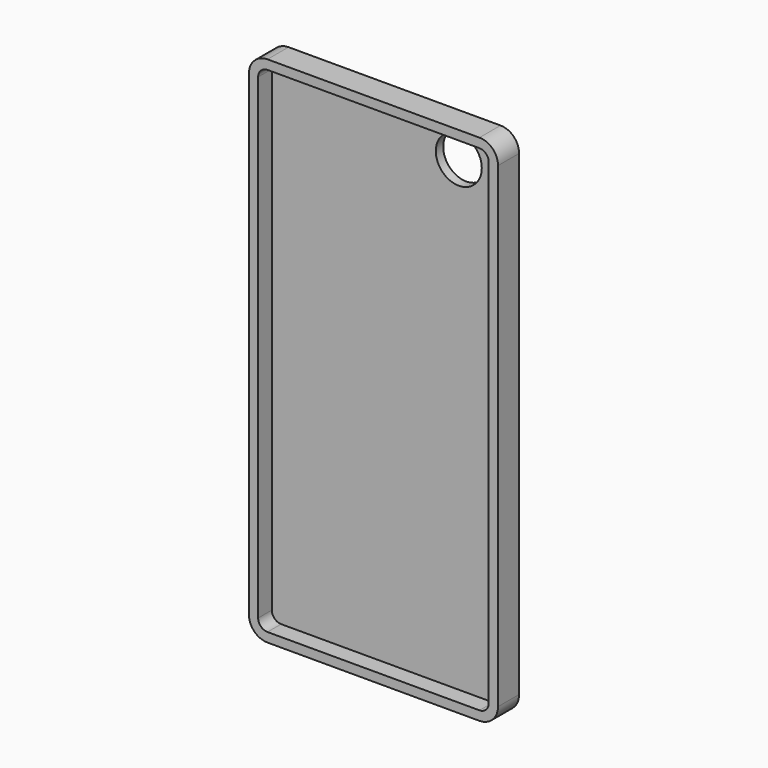
from build123d import *

# Parameters (mm, degrees)
F0_W     = 67.1
F0_H     = 138.3
F1_DEPTH = 3.55
F2_R     = 5
F3_T     = -2.5
F4_R     = 6.1900061573
F5_DEPTH = 12.5


with BuildPart() as f1:
    # F0 (on Front) → F1 (new body, symmetric)
    with BuildSketch(Plane.XZ):
        Rectangle(F0_W, F0_H)
    extrude(amount=F1_DEPTH, both=True)

    # F2
    f2_edges = [f1.edges().sort_by_distance(p)[0] for p in [
        (-33.55, 0, 69.15),
        (33.55, 0, 69.15),
        (33.55, 0, -69.15),
        (-33.55, 0, -69.15),
    ]]
    fillet(f2_edges, radius=F2_R)

    # F3
    f3_openings = [f1.faces().sort_by_distance(p)[0] for p in [
        (0, -3.55, 0),
    ]]
    offset(amount=F3_T, openings=f3_openings)

    # F4 (on Front) → F5 (cut, symmetric)
    with BuildSketch(Plane.XZ):
        with Locations((19.3064566702, 59.0549409389)):
            Circle(F4_R)
    extrude(amount=F5_DEPTH, both=True, mode=Mode.SUBTRACT)


solid = f1.part
